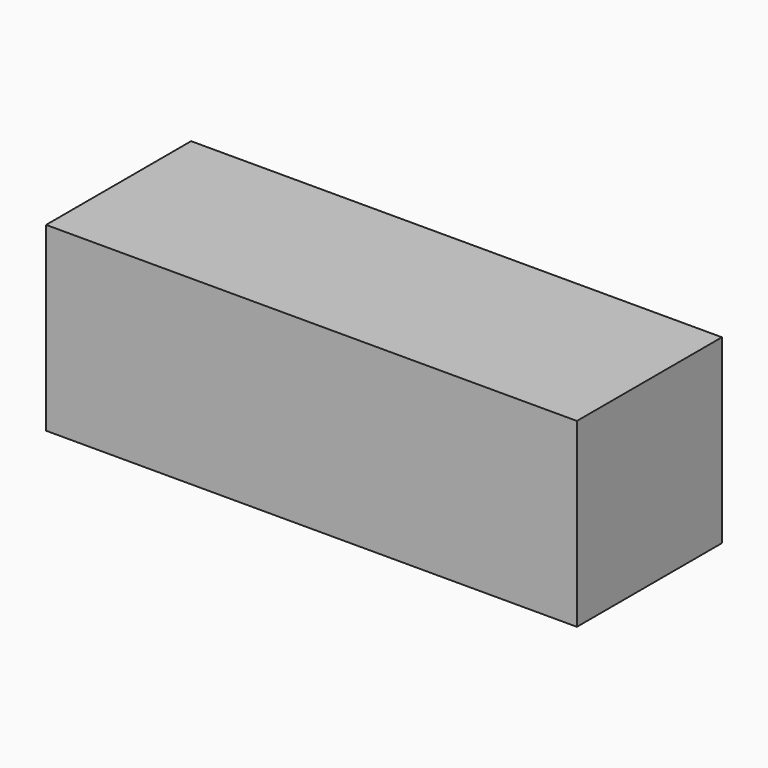
from build123d import *

# Parameters (mm, degrees)
F0_W     = 41
F0_H     = 14
F1_DEPTH = 1
F2_W     = 41
F2_H     = 14
F2_W_2   = 39
F2_H_2   = 12
F3_DEPTH = 12
F2_R     = 0.75
F4_DEPTH = 12
F5_W     = 41
F5_H     = 14
F6_DEPTH = 1


with BuildPart() as f1:
    # F0 (on Top) → F1 (new body)
    with BuildSketch(Plane.XY):
        Rectangle(F0_W, F0_H)
    extrude(amount=F1_DEPTH)

    # F2 (on face) → F3 (join)
    with BuildSketch(Plane.XY.offset(1)):
        Rectangle(F2_W, F2_H)
        Rectangle(F2_W_2, F2_H_2, mode=Mode.SUBTRACT)
    extrude(amount=F3_DEPTH)

    # F2 (on face) → F4 (join)
    with BuildSketch(Plane.XY.offset(1)):
        Rectangle(F2_W_2, F2_H_2)
        with Locations((-15.5, -2)):
            Circle(F2_R, mode=Mode.SUBTRACT)
        with Locations((-11.5, -2)):
            Circle(F2_R, mode=Mode.SUBTRACT)
        with Locations((-7.5, -2)):
            Circle(F2_R, mode=Mode.SUBTRACT)
        with Locations((-3.5, -2)):
            Circle(F2_R, mode=Mode.SUBTRACT)
        with Locations((3.5, -2)):
            Circle(F2_R, mode=Mode.SUBTRACT)
        with Locations((7.5, -2)):
            Circle(F2_R, mode=Mode.SUBTRACT)
        with Locations((11.5, -2)):
            Circle(F2_R, mode=Mode.SUBTRACT)
        with Locations((15.5, -2)):
            Circle(F2_R, mode=Mode.SUBTRACT)
        with Locations((-15.5, 2)):
            Circle(F2_R, mode=Mode.SUBTRACT)
        with Locations((-11.5, 2)):
            Circle(F2_R, mode=Mode.SUBTRACT)
        with Locations((-7.5, 2)):
            Circle(F2_R, mode=Mode.SUBTRACT)
        with Locations((-3.5, 2)):
            Circle(F2_R, mode=Mode.SUBTRACT)
        with Locations((3.5, 2)):
            Circle(F2_R, mode=Mode.SUBTRACT)
        with Locations((7.5, 2)):
            Circle(F2_R, mode=Mode.SUBTRACT)
        with Locations((11.5, 2)):
            Circle(F2_R, mode=Mode.SUBTRACT)
        with Locations((15.5, 2)):
            Circle(F2_R, mode=Mode.SUBTRACT)
    extrude(amount=F4_DEPTH)

    # F5 (on face) → F6 (join)
    with BuildSketch(Plane.XY.offset(13)):
        Rectangle(F5_W, F5_H)
    extrude(amount=F6_DEPTH)


solid = f1.part
